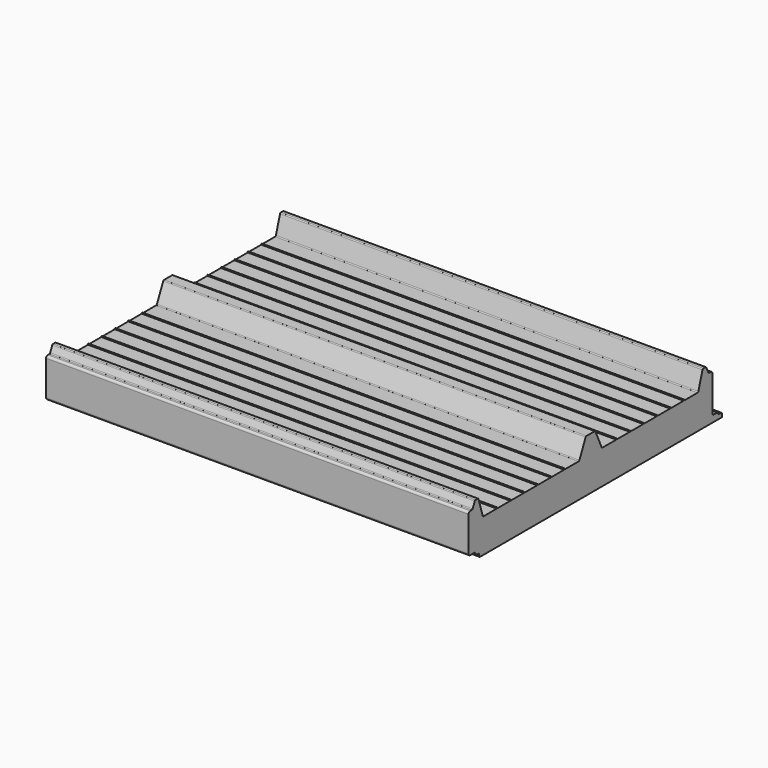
from build123d import *

# Parameters (mm, degrees)
F1_DEPTH      = 50.8
F1_DEPTH_BACK = 50.8


with BuildPart() as f1:
    # F0 (on Right) → F1 (new body, two sides)
    with BuildSketch(Plane.YZ) as f1_sk:
        with BuildLine():
            Line((-33.213852, 0), (0, 0))
            Line((0, 0), (39.494485, 0))
            Line((39.494485, 0), (39.494485, 0.787258))
            ThreePointArc((39.494485, 0.787258), (39.42009, 0.966864), (39.240485, 1.041258))
            Line((39.240485, 1.041258), (38.534891, 1.041258))
            ThreePointArc((38.534891, 1.041258), (38.355286, 1.115653), (38.280891, 1.295258))
            Line((38.280891, 1.295258), (38.280891, 1.323207))
            ThreePointArc((38.280891, 1.323207), (38.206496, 1.502813), (38.026891, 1.577207))
            Line((38.026891, 1.577207), (36.921442, 1.577207))
            ThreePointArc((36.921442, 1.577207), (36.739611, 1.653856), (36.667521, 1.837542))
            Line((36.667521, 1.837542), (36.67292, 2.053964))
            Line((36.67292, 2.053964), (36.67292, 10.407829))
            ThreePointArc((36.67292, 10.407829), (36.52413, 10.767039), (36.16492, 10.915829))
            Line((36.16492, 10.915829), (35.66636, 10.915829))
            ThreePointArc((35.66636, 10.915829), (35.529192, 10.956051), (35.435466, 11.063979))
            Line((35.435466, 11.063979), (34.805344, 12.438487))
            ThreePointArc((34.805344, 12.438487), (34.711619, 12.546415), (34.57445, 12.586637))
            Line((34.57445, 12.586637), (33.903744, 12.586637))
            ThreePointArc((33.903744, 12.586637), (33.752842, 12.536952), (33.660976, 12.407335))
            Line((33.660976, 12.407335), (32.40961, 8.340397))
            ThreePointArc((32.40961, 8.340397), (32.317744, 8.21078), (32.166843, 8.161095))
            Line((32.166843, 8.161095), (28.181681, 8.161095))
            Line((28.181681, 8.161095), (28.181681, 8.340397))
            Line((28.181681, 8.340397), (27.995555, 8.340397))
            Line((27.995555, 8.340397), (27.995555, 8.161095))
            Line((27.995555, 8.161095), (24.103897, 8.161095))
            Line((24.103897, 8.161095), (24.103897, 8.339632))
            Line((24.103897, 8.339632), (23.922047, 8.339632))
            Line((23.922047, 8.339632), (23.922047, 8.161095))
            Line((23.922047, 8.161095), (20.075496, 8.161095))
            Line((20.075496, 8.161095), (20.075496, 8.348511))
            Line((20.075496, 8.348511), (19.897439, 8.348511))
            Line((19.897439, 8.348511), (19.897439, 8.161095))
            Line((19.897439, 8.161095), (16.041223, 8.161095))
            Line((16.041223, 8.161095), (16.041223, 8.341497))
            Line((16.041223, 8.341497), (15.859049, 8.341497))
            Line((15.859049, 8.341497), (15.859049, 8.161095))
            Line((15.859049, 8.161095), (11.9808, 8.161095))
            Line((11.9808, 8.161095), (11.9808, 8.331576))
            Line((11.9808, 8.331576), (11.798942, 8.331576))
            Line((11.798942, 8.331576), (11.798942, 8.161095))
            Line((11.798942, 8.161095), (7.925448, 8.161095))
            Line((7.925448, 8.161095), (7.925448, 8.35035))
            Line((7.925448, 8.35035), (7.742784, 8.35035))
            Line((7.742784, 8.35035), (7.742784, 8.161095))
            Line((7.742784, 8.161095), (3.581181, 8.161095))
            ThreePointArc((3.581181, 8.161095), (3.444013, 8.201317), (3.350287, 8.309245))
            Line((3.350287, 8.309245), (1.457299, 12.438487))
            ThreePointArc((1.457299, 12.438487), (1.363573, 12.546415), (1.226405, 12.586637))
            Line((1.226405, 12.586637), (0, 12.586637))
            Line((0, 12.586637), (-1.226405, 12.586637))
            ThreePointArc((-1.226405, 12.586637), (-1.363573, 12.546415), (-1.457299, 12.438487))
            Line((-1.457299, 12.438487), (-3.350287, 8.309245))
            ThreePointArc((-3.350287, 8.309245), (-3.444013, 8.201317), (-3.581181, 8.161095))
            Line((-3.581181, 8.161095), (-7.742784, 8.161095))
            Line((-7.742784, 8.161095), (-7.742784, 8.35035))
            Line((-7.742784, 8.35035), (-7.925448, 8.35035))
            Line((-7.925448, 8.35035), (-7.925448, 8.161095))
            Line((-7.925448, 8.161095), (-11.798942, 8.161095))
            Line((-11.798942, 8.161095), (-11.798942, 8.331576))
            Line((-11.798942, 8.331576), (-11.9808, 8.331576))
            Line((-11.9808, 8.331576), (-11.9808, 8.161095))
            Line((-11.9808, 8.161095), (-15.859049, 8.161095))
            Line((-15.859049, 8.161095), (-15.859049, 8.341497))
            Line((-15.859049, 8.341497), (-16.041223, 8.341497))
            Line((-16.041223, 8.341497), (-16.041223, 8.161095))
            Line((-16.041223, 8.161095), (-19.897439, 8.161095))
            Line((-19.897439, 8.161095), (-19.897439, 8.348511))
            Line((-19.897439, 8.348511), (-20.075496, 8.348511))
            Line((-20.075496, 8.348511), (-20.075496, 8.161095))
            Line((-20.075496, 8.161095), (-23.922047, 8.161095))
            Line((-23.922047, 8.161095), (-23.922047, 8.339632))
            Line((-23.922047, 8.339632), (-24.103897, 8.339632))
            Line((-24.103897, 8.339632), (-24.103897, 8.161095))
            Line((-24.103897, 8.161095), (-27.995555, 8.161095))
            Line((-27.995555, 8.161095), (-27.995555, 8.340397))
            Line((-27.995555, 8.340397), (-28.181681, 8.340397))
            Line((-28.181681, 8.340397), (-28.181681, 8.161095))
            Line((-28.181681, 8.161095), (-32.166843, 8.161095))
            ThreePointArc((-32.166843, 8.161095), (-32.317744, 8.21078), (-32.40961, 8.340397))
            Line((-32.40961, 8.340397), (-33.660976, 12.407335))
            ThreePointArc((-33.660976, 12.407335), (-33.752842, 12.536952), (-33.903744, 12.586637))
            Line((-33.903744, 12.586637), (-34.57445, 12.586637))
            ThreePointArc((-34.57445, 12.586637), (-34.711619, 12.546415), (-34.805344, 12.438487))
            Line((-34.805344, 12.438487), (-35.435466, 11.063979))
            ThreePointArc((-35.435466, 11.063979), (-35.529192, 10.956051), (-35.66636, 10.915829))
            Line((-35.66636, 10.915829), (-36.16492, 10.915829))
            ThreePointArc((-36.16492, 10.915829), (-36.52413, 10.767039), (-36.67292, 10.407829))
            Line((-36.67292, 10.407829), (-36.67292, 2.053964))
            ThreePointArc((-36.67292, 2.053964), (-36.52413, 1.694754), (-36.16492, 1.545964))
            Line((-36.16492, 1.545964), (-34.873612, 1.545964))
            ThreePointArc((-34.873612, 1.545964), (-34.694007, 1.47157), (-34.619612, 1.291964))
            Line((-34.619612, 1.291964), (-34.619612, 1.104801))
            ThreePointArc((-34.619612, 1.104801), (-34.545217, 0.925196), (-34.365612, 0.850801))
            Line((-34.365612, 0.850801), (-33.721852, 0.850801))
            ThreePointArc((-33.721852, 0.850801), (-33.542246, 0.776406), (-33.467852, 0.596801))
            Line((-33.467852, 0.596801), (-33.467852, 0.254))
            ThreePointArc((-33.467852, 0.254), (-33.393457, 0.074395), (-33.213852, 0))
        make_face()
    extrude(amount=F1_DEPTH)
    extrude(f1_sk.sketch, amount=-F1_DEPTH_BACK)


solid = f1.part
